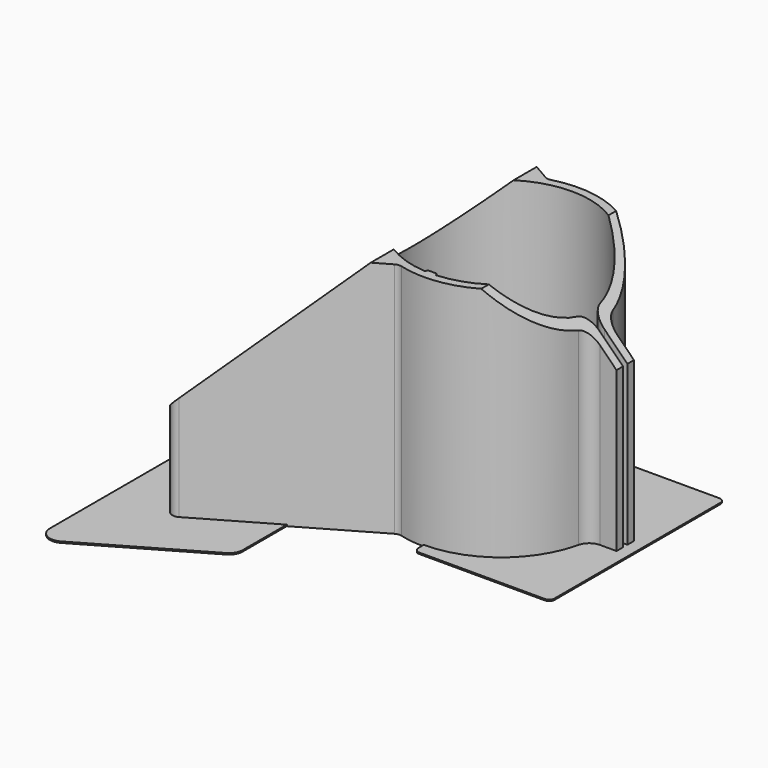
from build123d import *

# Parameters (mm, degrees)
F1_DEPTH = 150
F3_DEPTH = 75
F5_DEPTH = 0.5
F7_DEPTH = 86.990708
F9_DEPTH = 0.5


with BuildPart() as f1:
    # F0 (on Top) → F1 (new body)
    with BuildSketch(Plane.XY):
        with BuildLine():
            ThreePointArc((-2.176791, -32.427019), (-24.031606, 21.879943), (32.081303, 5.2))
            ThreePointArc((32.081303, 5.2), (33.776518, 2.192113), (37.016888, 1))
            Line((37.016888, 1), (45.5, 1))
            Line((45.5, 1), (45.5, 4))
            Line((45.5, 4), (39.48734, 4))
            ThreePointArc((39.48734, 4), (36.369292, 5.09132), (34.61236, 7.888889))
            ThreePointArc((34.61236, 7.888889), (18.337824, 30.396944), (-9.162371, 34.297244))
            ThreePointArc((-9.162371, 34.297244), (-10.329349, 34.221415), (-11.436656, 34.597527))
            Line((-11.436656, 34.597527), (-65.5, 65.811013))
            ThreePointArc((-65.5, 65.811013), (-68.5, 65.811013), (-70, 63.212937))
            Line((-70, 63.212937), (-70, -63.212937))
            ThreePointArc((-70, -63.212937), (-68.5, -65.811013), (-65.5, -65.811013))
            Line((-65.5, -65.811013), (-11.436656, -34.597527))
            ThreePointArc((-11.436656, -34.597527), (-10.329349, -34.221415), (-9.162371, -34.297244))
            ThreePointArc((-9.162371, -34.297244), (18.337824, -30.396944), (34.61236, -7.888889))
            ThreePointArc((34.61236, -7.888889), (36.369292, -5.09132), (39.48734, -4))
            Line((39.48734, -4), (45.5, -4))
            Line((45.5, -4), (45.5, -1))
            Line((45.5, -1), (37.016888, -1))
            ThreePointArc((37.016888, -1), (33.776518, -2.192113), (32.081303, -5.2))
            ThreePointArc((32.081303, -5.2), (21.879943, -24.031606), (2.176791, -32.427019))
            ThreePointArc((2.176791, -32.427019), (1.876794, -32.320079), (1.75, -32.027918))
            Line((1.75, -32.027918), (1.75, -31.9))
            ThreePointArc((1.75, -31.9), (1.632843, -31.617157), (1.35, -31.5))
            Line((1.35, -31.5), (-1.35, -31.5))
            ThreePointArc((-1.35, -31.5), (-1.632843, -31.617157), (-1.75, -31.9))
            Line((-1.75, -31.9), (-1.75, -32.027918))
            ThreePointArc((-1.75, -32.027918), (-1.876794, -32.320079), (-2.176791, -32.427019))
        make_face()
    extrude(amount=F1_DEPTH)

    # F2 (on Front) → F3 (cut, symmetric)
    with BuildSketch(Plane.XZ):
        Polygon((-77.363482, 27.040717), (-17.414491, 86.989708), (17.414491, 86.989708), (50.545239, 53.85896), (50.545239, 154.949438), (-77.363482, 154.949438), align=None)
    extrude(amount=F3_DEPTH, both=True, mode=Mode.SUBTRACT)

    # F4 (on Top) → F5 (join)
    with BuildSketch(Plane.XY):
        with BuildLine():
            ThreePointArc((0, -38), (0.585786, -39.414214), (2, -40))
            Line((2, -40), (48, -40))
            ThreePointArc((48, -40), (49.414214, -39.414214), (50, -38))
            Line((50, -38), (50, 38))
            ThreePointArc((50, 38), (49.414214, 39.414214), (48, 40))
            Line((48, 40), (2, 40))
            ThreePointArc((2, 40), (0.585786, 39.414214), (0, 38))
            Line((0, 38), (0, 32.5))
            ThreePointArc((0, 32.5), (22.262637, 23.677521), (32.438403, 2))
            ThreePointArc((32.438403, 2), (32.477971, -1.196408), (32.203334, -4.381241))
            ThreePointArc((32.203334, -4.381241), (21.375917, -24.481017), (0, -32.5))
            Line((0, -32.5), (0, -38))
        make_face()
    extrude(amount=F5_DEPTH)

    # F6 (on face) → F7 (cut, through all)
    with BuildSketch(Plane(origin=(0, 0, 0), x_dir=(1, 0, 0), z_dir=(0, 0, -1))):
        with BuildLine():
            ThreePointArc((-20.087869, 30.475031), (-19.18945, 32.204075), (-20.188574, 33.876946))
            Line((-20.188574, 33.876946), (-27.776801, 38.258011))
            ThreePointArc((-27.776801, 38.258011), (-28.920364, 38.520801), (-30.014512, 38.096969))
            ThreePointArc((-30.014512, 38.096969), (-35.991208, 32.509736), (-40.943701, 25.997372))
            ThreePointArc((-40.943701, 25.997372), (-41.174979, 24.364211), (-40.100538, 23.112699))
            Line((-40.100538, 23.112699), (-32.776044, 19.697232))
            ThreePointArc((-32.776044, 19.697232), (-31.395755, 19.582746), (-30.272064, 20.392453))
            ThreePointArc((-30.272064, 20.392453), (-25.679667, 25.938479), (-20.087869, 30.475031))
        make_face()
        with BuildLine():
            ThreePointArc((-62, 58.016784), (-64, 58.016784), (-65, 56.284733))
            Line((-65, 56.284733), (-65, 37.908861))
            ThreePointArc((-65, 37.908861), (-64.216957, 35.222363), (-62.113091, 33.377322))
            Line((-62.113091, 33.377322), (-58.479854, 31.683116))
            ThreePointArc((-58.479854, 31.683116), (-56.560019, 31.808948), (-55.634618, 33.495731))
            Line((-55.634618, 33.495731), (-55.634618, 53.187029))
            ThreePointArc((-55.634618, 53.187029), (-55.902567, 54.187029), (-56.634618, 54.919079))
            Line((-56.634618, 54.919079), (-62, 58.016784))
        make_face()
        with BuildLine():
            ThreePointArc((-65, -56.284733), (-64, -58.016784), (-62, -58.016784))
            Line((-62, -58.016784), (-56.634618, -54.919079))
            ThreePointArc((-56.634618, -54.919079), (-55.902567, -54.187029), (-55.634618, -53.187029))
            Line((-55.634618, -53.187029), (-55.634618, -33.495731))
            ThreePointArc((-55.634618, -33.495731), (-56.560019, -31.808948), (-58.479854, -31.683116))
            Line((-58.479854, -31.683116), (-62.113091, -33.377322))
            ThreePointArc((-62.113091, -33.377322), (-64.216957, -35.222363), (-65, -37.908861))
            Line((-65, -37.908861), (-65, -56.284733))
        make_face()
        with BuildLine():
            ThreePointArc((-20.188574, -33.876946), (-19.18945, -32.204075), (-20.087869, -30.475031))
            ThreePointArc((-20.087869, -30.475031), (-25.679667, -25.938479), (-30.272064, -20.392453))
            ThreePointArc((-30.272064, -20.392453), (-31.395755, -19.582746), (-32.776044, -19.697232))
            Line((-32.776044, -19.697232), (-40.100538, -23.112699))
            ThreePointArc((-40.100538, -23.112699), (-41.174979, -24.364211), (-40.943701, -25.997372))
            ThreePointArc((-40.943701, -25.997372), (-35.991208, -32.509736), (-30.014512, -38.096969))
            ThreePointArc((-30.014512, -38.096969), (-28.920364, -38.520801), (-27.776801, -38.258011))
            Line((-27.776801, -38.258011), (-20.188574, -33.876946))
        make_face()
        with BuildLine():
            ThreePointArc((-65, 4), (-64.414214, 2.585786), (-63, 2))
            Line((-63, 2), (-54.353013, 2))
            ThreePointArc((-54.353013, 2), (-52.991686, 2.534808), (-52.358407, 3.853211))
            ThreePointArc((-52.358407, 3.853211), (-51.038072, 12.303058), (-48.363328, 20.426416))
            ThreePointArc((-48.363328, 20.426416), (-48.339225, 21.922981), (-49.360504, 23.017181))
            Line((-49.360504, 23.017181), (-62.154763, 28.983242))
            ThreePointArc((-62.154763, 28.983242), (-64.074599, 28.85741), (-65, 27.170627))
            Line((-65, 27.170627), (-65, 4))
        make_face()
        with BuildLine():
            Line((-54.353013, -2), (-63, -2))
            ThreePointArc((-63, -2), (-64.414214, -2.585786), (-65, -4))
            Line((-65, -4), (-65, -27.170627))
            ThreePointArc((-65, -27.170627), (-64.074599, -28.85741), (-62.154763, -28.983242))
            Line((-62.154763, -28.983242), (-49.360504, -23.017181))
            ThreePointArc((-49.360504, -23.017181), (-48.339225, -21.922981), (-48.363328, -20.426416))
            ThreePointArc((-48.363328, -20.426416), (-51.038072, -12.303058), (-52.358407, -3.853211))
            ThreePointArc((-52.358407, -3.853211), (-52.991686, -2.534808), (-54.353013, -2))
        make_face()
        with BuildLine():
            ThreePointArc((-38.291644, 2), (-36.95291, 2.514136), (-36.302468, 3.792208))
            ThreePointArc((-36.302468, 3.792208), (-35.416886, 8.825768), (-33.836897, 13.686285))
            ThreePointArc((-33.836897, 13.686285), (-33.829996, 15.16886), (-34.845737, 16.248834))
            Line((-34.845737, 16.248834), (-42.104313, 19.633564))
            ThreePointArc((-42.104313, 19.633564), (-43.673858, 19.685185), (-44.796842, 18.58744))
            ThreePointArc((-44.796842, 18.58744), (-47.11314, 11.515298), (-48.320224, 4.172043))
            ThreePointArc((-48.320224, 4.172043), (-47.801423, 2.64798), (-46.327638, 2))
            Line((-46.327638, 2), (-38.291644, 2))
        make_face()
        with BuildLine():
            ThreePointArc((-33.836897, -13.686285), (-35.416886, -8.825768), (-36.302468, -3.792208))
            ThreePointArc((-36.302468, -3.792208), (-36.95291, -2.514136), (-38.291644, -2))
            Line((-38.291644, -2), (-46.327638, -2))
            ThreePointArc((-46.327638, -2), (-47.801423, -2.64798), (-48.320224, -4.172043))
            ThreePointArc((-48.320224, -4.172043), (-47.11314, -11.515298), (-44.796842, -18.58744))
            ThreePointArc((-44.796842, -18.58744), (-43.673858, -19.685185), (-42.104313, -19.633564))
            Line((-42.104313, -19.633564), (-34.845737, -16.248834))
            ThreePointArc((-34.845737, -16.248834), (-33.829996, -15.16886), (-33.836897, -13.686285))
        make_face()
        with BuildLine():
            ThreePointArc((-35.151544, -42.515821), (-34.161702, -40.985091), (-34.824882, -39.287118))
            ThreePointArc((-34.824882, -39.287118), (-40.286106, -33.66422), (-44.849277, -27.290883))
            ThreePointArc((-44.849277, -27.290883), (-45.978431, -26.416298), (-47.403058, -26.517921))
            Line((-47.403058, -26.517921), (-50.479854, -27.952654))
            ThreePointArc((-50.479854, -27.952654), (-51.321401, -28.690671), (-51.634618, -29.76527))
            Line((-51.634618, -29.76527), (-51.634618, -48.568226))
            ThreePointArc((-51.634618, -48.568226), (-50.634618, -50.300277), (-48.634618, -50.300277))
            Line((-48.634618, -50.300277), (-35.151544, -42.515821))
        make_face()
        with BuildLine():
            Line((-50.479854, 27.952654), (-47.403058, 26.517921))
            ThreePointArc((-47.403058, 26.517921), (-45.978431, 26.416298), (-44.849277, 27.290883))
            ThreePointArc((-44.849277, 27.290883), (-40.286106, 33.66422), (-34.824882, 39.287118))
            ThreePointArc((-34.824882, 39.287118), (-34.161702, 40.985091), (-35.151544, 42.515821))
            Line((-35.151544, 42.515821), (-48.634618, 50.300277))
            ThreePointArc((-48.634618, 50.300277), (-50.634618, 50.300277), (-51.634618, 48.568226))
            Line((-51.634618, 48.568226), (-51.634618, 29.76527))
            ThreePointArc((-51.634618, 29.76527), (-51.321401, 28.690671), (-50.479854, 27.952654))
        make_face()
    extrude(amount=-F7_DEPTH, mode=Mode.SUBTRACT)

    # F8 (on face) → F9 (join)
    with BuildSketch(Plane(origin=(0, 0, 0), x_dir=(1, 0, 0), z_dir=(0, 0, -1))):
        with BuildLine():
            Line((-38.468328, 50.20427), (-38.468328, 70.411529))
            ThreePointArc((-38.468328, 70.411529), (-39.138201, 72.911529), (-40.968328, 74.741656))
            Line((-40.968328, 74.741656), (-82.5, 98.719978))
            ThreePointArc((-82.5, 98.719978), (-87.5, 98.719978), (-90, 94.389851))
            Line((-90, 94.389851), (-90, -94.389851))
            ThreePointArc((-90, -94.389851), (-87.5, -98.719978), (-82.5, -98.719978))
            Line((-82.5, -98.719978), (-40.968328, -74.741656))
            ThreePointArc((-40.968328, -74.741656), (-39.138201, -72.911529), (-38.468328, -70.411529))
            Line((-38.468328, -70.411529), (-38.468328, -50.20427))
            Line((-38.468328, -50.20427), (-65.5, -65.811013))
            ThreePointArc((-65.5, -65.811013), (-68.5, -65.811013), (-70, -63.212937))
            Line((-70, -63.212937), (-70, 63.212937))
            ThreePointArc((-70, 63.212937), (-68.5, 65.811013), (-65.5, 65.811013))
            Line((-65.5, 65.811013), (-38.468328, 50.20427))
        make_face()
    extrude(amount=-F9_DEPTH)


solid = f1.part
